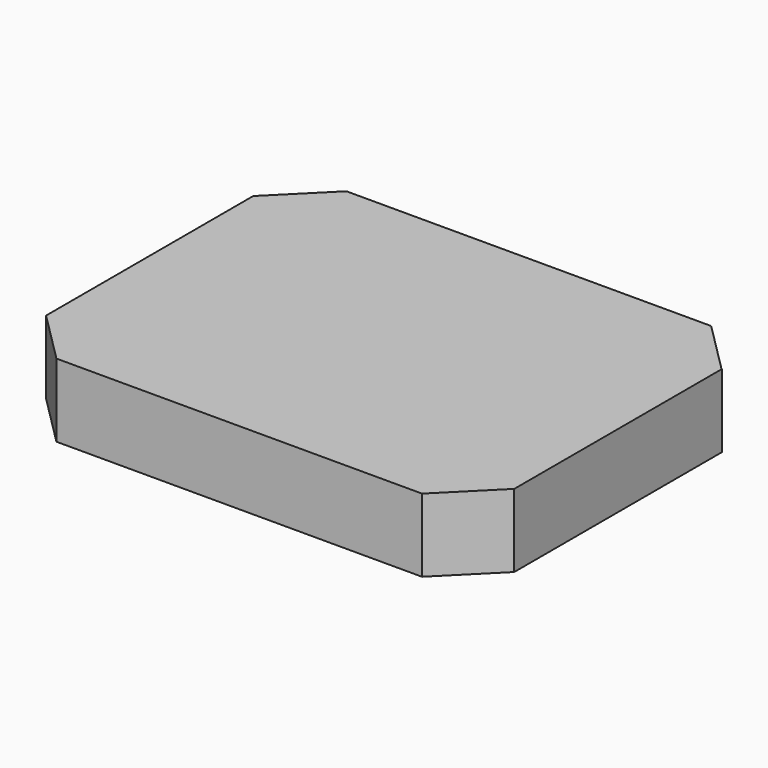
from build123d import *

# Parameters (mm, degrees)
CYLINDER_R             = 1.75
CYLINDER_DEPTH         = 6
ARRAY_X_COUNT          = 2
ARRAY_X_PITCH          = 22
ARRAY_Y_COUNT          = 2
ARRAY_Y_PITCH          = 40
BOX003_W               = 20
BOX003_H               = 20
BOX003_DEPTH           = 20
BOX003_PLACEMENT_ANGLE = 45
BOX004_W               = 20
BOX004_H               = 20
BOX004_DEPTH           = 20
BOX004_PLACEMENT_ANGLE = 45
BOX002_W               = 20
BOX002_H               = 20
BOX002_DEPTH           = 20
BOX002_PLACEMENT_ANGLE = -45
BOX_W                  = 20
BOX_H                  = 20
BOX_DEPTH              = 20
BOX_PLACEMENT_ANGLE    = -45
BOX001_W               = 128
BOX001_H               = 99
BOX001_DEPTH           = 20


with BuildPart() as array:
    # Cylinder → Cylinder (new body)
    with BuildSketch(Plane.XY):
        Circle(CYLINDER_R)
    extrude(amount=CYLINDER_DEPTH)

    # Array X: Array ×2


with BuildPart() as array_1:
    add(array.part)
    with Locations(*[(i * ARRAY_X_PITCH, 0, 0) for i in range(1, ARRAY_X_COUNT)]):
        add(array.part)

    # Array Y: Array ×2


with BuildPart() as array_2:
    add(array_1.part)
    with Locations(*[(0, i * ARRAY_Y_PITCH, 0) for i in range(1, ARRAY_Y_COUNT)]):
        add(array_1.part)


with BuildPart() as array_3:
    # Array placement: moved
    add(array_2.part.moved(Location((37.5, -8, 0))))


with BuildPart() as cubo004:
    # Box003 → Box003 (new body)
    with BuildSketch(Plane.XY):
        with Locations((10, 10)):
            Rectangle(BOX003_W, BOX003_H)
    extrude(amount=BOX003_DEPTH)


with BuildPart() as cubo004_1:
    # Box003 placement: moved
    add(cubo004.part.moved(Location((-14, -28.65, 0))).rotate(Axis((-14, -28.65, 0), (0, 0, 1)), BOX003_PLACEMENT_ANGLE))


with BuildPart() as cubo005:
    # Box004 → Box004 (new body)
    with BuildSketch(Plane.XY):
        with Locations((10, 10)):
            Rectangle(BOX004_W, BOX004_H)
    extrude(amount=BOX004_DEPTH)


with BuildPart() as cubo005_1:
    # Box004 placement: moved
    add(cubo005.part.moved(Location((-14, 70.35, 0))).rotate(Axis((-14, 70.35, 0), (0, 0, 1)), BOX004_PLACEMENT_ANGLE))


with BuildPart() as cubo002:
    # Box002 → Box002 (new body)
    with BuildSketch(Plane.XY):
        with Locations((10, 10)):
            Rectangle(BOX002_W, BOX002_H)
    extrude(amount=BOX002_DEPTH)


with BuildPart() as cubo002_1:
    # Box002 placement: moved
    add(cubo002.part.moved(Location((100, -14.5, 0))).rotate(Axis((100, -14.5, 0), (0, 0, 1)), BOX002_PLACEMENT_ANGLE))


with BuildPart() as fusion:
    # Box → Box (new body)
    with BuildSketch(Plane.XY):
        with Locations((10, 10)):
            Rectangle(BOX_W, BOX_H)
    extrude(amount=BOX_DEPTH)


with BuildPart() as fusion_1:
    # Box placement: moved
    add(fusion.part.moved(Location((99.8, 84.5, 0))).rotate(Axis((99.8, 84.5, 0), (0, 0, 1)), BOX_PLACEMENT_ANGLE))

    # Fusion: union Cubo004, Cubo005, Cubo002
    add(cubo004_1.part)
    add(cubo005_1.part)
    add(cubo002_1.part)


with BuildPart() as cut001:
    # Box001 → Box001 (new body)
    with BuildSketch(Plane(origin=(-14, -14.5, 0), x_dir=(1, 0, 0), z_dir=(0, 0, 1))):
        with Locations((64, 49.5)):
            Rectangle(BOX001_W, BOX001_H)
    extrude(amount=BOX001_DEPTH)

    # Cut: cut Fusion
    add(fusion_1.part, mode=Mode.SUBTRACT)

    # Cut001: cut Array
    add(array_3.part, mode=Mode.SUBTRACT)


solid = cut001.part
